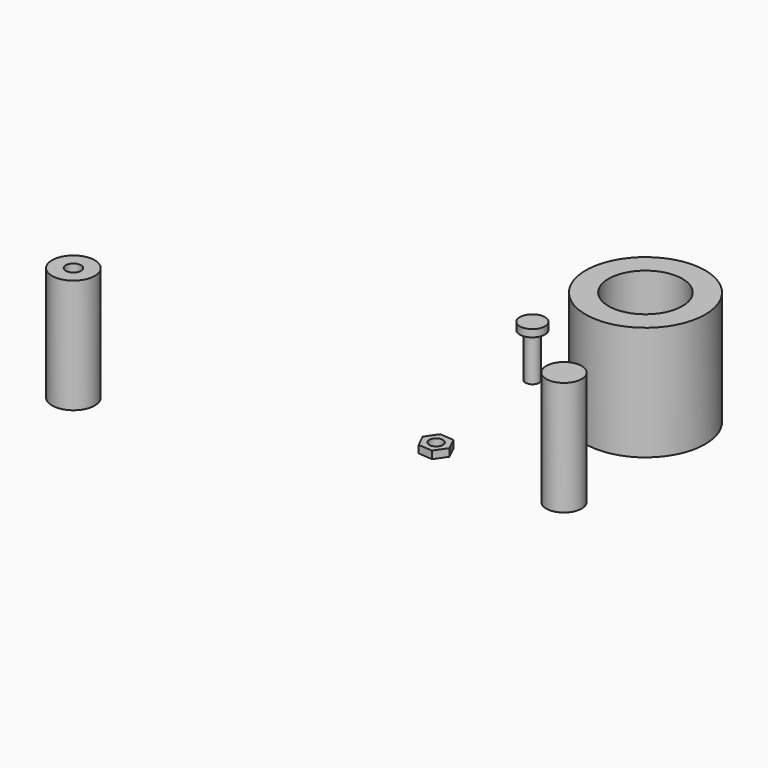
from build123d import *

# Parameters (mm, degrees)
F0_R      = 1.5
F1_DEPTH  = 9.7
F2_R      = 2.75
F3_DEPTH  = 1.6
F4_R      = 1.5
F5_DEPTH  = 1.66
F6_R      = 13.1
F6_R_2    = 8.1
F7_DEPTH  = 25
F8_R      = 3.88
F9_DEPTH  = 25
F10_R     = 4.675
F10_R_2   = 1.675
F11_DEPTH = 25


with BuildPart() as f1:
    # F0 (on Top) → F1 (new body)
    with BuildSketch(Plane.XY):
        Circle(F0_R)
    extrude(amount=F1_DEPTH)

    # F2 (on face) → F3 (join)
    with BuildSketch(Plane.XY.offset(9.7)):
        Circle(F2_R)
    extrude(amount=F3_DEPTH)


with BuildPart() as f5:
    # F4 (on Top) → F5 (new body)
    with BuildSketch(Plane.XY):
        Polygon((4.863402, -33.540481), (6.615238, -30.961514), (5.257705, -28.154896), (2.148336, -27.927245), (0.3965, -30.506212), (1.754033, -33.31283), align=None)
        with Locations((3.505869, -30.733863)):
            Circle(F4_R, mode=Mode.SUBTRACT)
    extrude(amount=F5_DEPTH)


with BuildPart() as f7:
    # F6 (on Top) → F7 (new body)
    with BuildSketch(Plane.XY):
        with Locations((24.776956, 0)):
            Circle(F6_R)
        with Locations((24.776956, 0)):
            Circle(F6_R_2, mode=Mode.SUBTRACT)
    extrude(amount=F7_DEPTH)


with BuildPart() as f9:
    # F8 (on Top) → F9 (new body)
    with BuildSketch(Plane.XY):
        with Locations((32.405801, -31.85419)):
            Circle(F8_R)
    extrude(amount=F9_DEPTH)


with BuildPart() as f11:
    # F10 (on Top) → F11 (new body)
    with BuildSketch(Plane.XY):
        with Locations((-57.277318, -54.06715)):
            Circle(F10_R)
        with Locations((-57.277318, -54.06715)):
            Circle(F10_R_2, mode=Mode.SUBTRACT)
    extrude(amount=F11_DEPTH)


solid = Compound([f1.part, f5.part, f7.part, f9.part, f11.part])
